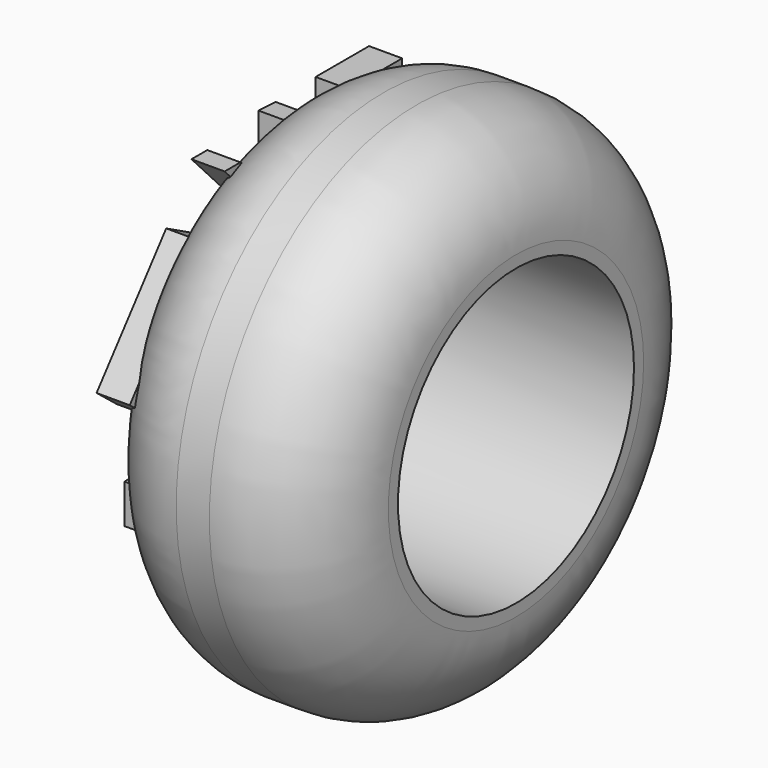
from build123d import *

# Parameters (mm, degrees)
F0_R     = 19.848958
F0_R_2   = 11.303
F1_DEPTH = 17.78
F2_R     = 7.62
F3_W     = 5.119225
F3_H     = 1.897266
F3_W_2   = 1.970694
F3_H_2   = 4.695322
F3_W_3   = 2.363822
F3_H_3   = 3.009573
F4_DEPTH = 2.54


with BuildPart() as f1:
    # F0 (on Right) → F1 (new body)
    with BuildSketch(Plane.YZ):
        Circle(F0_R)
        Circle(F0_R_2, mode=Mode.SUBTRACT)
        Circle(F0_R)
        Circle(F0_R_2, mode=Mode.SUBTRACT)
    extrude(amount=F1_DEPTH)

    # F2
    f2_edges = [f1.edges().sort_by_distance(p)[0] for p in [
        (17.78, -19.848958, 0),
        (0, -19.848958, 0),
    ]]
    fillet(f2_edges, radius=F2_R)

    # F3 (on Right) → F4 (join)
    with BuildSketch(Plane.YZ):
        Polygon((-16.004974, 2.860423), (-9.045522, 11.621134), (-11.280753, 12.795233), (-17.947224, 4.403334), align=None)
        Polygon((-7.344878, 16.480749), (-8.859969, 16.480749), (-5.829786, 13.28801), (-5.829786, 15.35471), align=None)
        Polygon((-0.795809, 17.064454), (-2.434773, 17.146636), (-2.434773, 13.698089), (0, 13.698089), align=None)
        with Locations((5.589543, 16.248173)):
            Rectangle(F3_W, F3_H)
        Polygon((15.545471, 10.081242), (11.165203, 11.949784), (14.310407, 8.834369), align=None)
        Polygon((15.304292, 6.423779), (13.562527, 6.725411), (13.562527, 2.356187), (15.901389, 2.356187), align=None)
        with Locations((14.825182, -3.328288)):
            Rectangle(F3_W_2, F3_H_2)
        Polygon((8.990117, -10.330278), (8.990117, -13.34158), (12.587023, -11.835929), align=None)
        Polygon((0, -12.875467), (0, -15.095817), (5.354564, -17.308898), (6.13836, -15.412497), align=None)
        Polygon((-2.445628, -13.634987), (-12.557364, -8.420914), (-4.788246, -16.027622), align=None)
        with Locations((-14.094844, -4.16113)):
            Rectangle(F3_W_3, F3_H_3)
    extrude(amount=F4_DEPTH)


solid = f1.part
